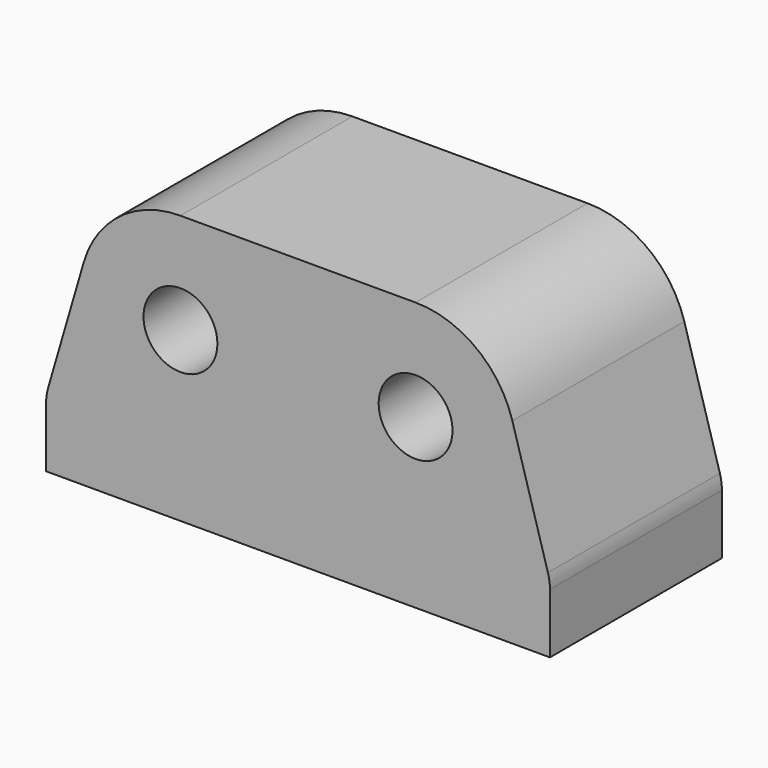
from build123d import *

# Parameters (mm, degrees)
F0_R     = 5.5
F1_DEPTH = 32
F3_DEPTH = 32


with BuildPart() as f1:
    # F0 (on Front) → F1 (new body)
    with BuildSketch(Plane.XZ):
        with BuildLine():
            ThreePointArc((16.088193, 8.229591), (13.179068, 8.816778), (10.725462, 10.486394))
            ThreePointArc((10.725462, 10.486394), (-3.640775, 14.551452), (-14.4, 4.2))
            Line((-14.4, 4.2), (-19.7, -13.971429))
            ThreePointArc((-19.7, -13.971429), (-19.924621, -15.010768), (-20, -16.071429))
            Line((-20, -16.071429), (-20, -25))
            Line((-20, -25), (0, -25))
            Line((0, -25), (20, -25))
            Line((20, -25), (50, -25))
            Line((50, -25), (55, -25))
            Line((55, -25), (55, -16.071429))
            ThreePointArc((55, -16.071429), (54.924621, -15.010768), (54.7, -13.971429))
            Line((54.7, -13.971429), (49.4, 4.2))
            ThreePointArc((49.4, 4.2), (38.640775, 14.551452), (24.274538, 10.486394))
            ThreePointArc((24.274538, 10.486394), (21.820932, 8.816778), (18.911807, 8.229591))
            Line((18.911807, 8.229591), (16.088193, 8.229591))
        make_face()
        Circle(F0_R, mode=Mode.SUBTRACT)
        with BuildLine():
            ThreePointArc((40.5, 0), (35, -5.5), (29.5, 0))
            ThreePointArc((29.5, 0), (35, 5.5), (40.5, 0))
        make_face(mode=Mode.SUBTRACT)
        with BuildLine():
            ThreePointArc((16.088193, 8.229591), (13.179068, 8.816778), (10.725462, 10.486394))
            ThreePointArc((10.725462, 10.486394), (-3.640775, 14.551452), (-14.4, 4.2))
            Line((-14.4, 4.2), (-19.7, -13.971429))
            ThreePointArc((-19.7, -13.971429), (-19.924621, -15.010768), (-20, -16.071429))
            Line((-20, -16.071429), (-20, -25))
            Line((-20, -25), (0, -25))
            Line((0, -25), (20, -25))
            Line((20, -25), (50, -25))
            Line((50, -25), (55, -25))
            Line((55, -25), (55, -16.071429))
            ThreePointArc((55, -16.071429), (54.924621, -15.010768), (54.7, -13.971429))
            Line((54.7, -13.971429), (49.4, 4.2))
            ThreePointArc((49.4, 4.2), (38.640775, 14.551452), (24.274538, 10.486394))
            ThreePointArc((24.274538, 10.486394), (21.820932, 8.816778), (18.911807, 8.229591))
            Line((18.911807, 8.229591), (16.088193, 8.229591))
        make_face()
        Circle(F0_R, mode=Mode.SUBTRACT)
        with BuildLine():
            ThreePointArc((40.5, 0), (35, -5.5), (29.5, 0))
            ThreePointArc((29.5, 0), (35, 5.5), (40.5, 0))
        make_face(mode=Mode.SUBTRACT)
        with BuildLine():
            ThreePointArc((16.088193, 8.229591), (13.179068, 8.816778), (10.725462, 10.486394))
            ThreePointArc((10.725462, 10.486394), (-3.640775, 14.551452), (-14.4, 4.2))
            Line((-14.4, 4.2), (-19.7, -13.971429))
            ThreePointArc((-19.7, -13.971429), (-19.924621, -15.010768), (-20, -16.071429))
            Line((-20, -16.071429), (-20, -25))
            Line((-20, -25), (0, -25))
            Line((0, -25), (20, -25))
            Line((20, -25), (50, -25))
            Line((50, -25), (55, -25))
            Line((55, -25), (55, -16.071429))
            ThreePointArc((55, -16.071429), (54.924621, -15.010768), (54.7, -13.971429))
            Line((54.7, -13.971429), (49.4, 4.2))
            ThreePointArc((49.4, 4.2), (38.640775, 14.551452), (24.274538, 10.486394))
            ThreePointArc((24.274538, 10.486394), (21.820932, 8.816778), (18.911807, 8.229591))
            Line((18.911807, 8.229591), (16.088193, 8.229591))
        make_face()
        Circle(F0_R, mode=Mode.SUBTRACT)
        with BuildLine():
            ThreePointArc((40.5, 0), (35, -5.5), (29.5, 0))
            ThreePointArc((29.5, 0), (35, 5.5), (40.5, 0))
        make_face(mode=Mode.SUBTRACT)
    extrude(amount=F1_DEPTH)

    # F2 (on face) → F3 (join)
    with BuildSketch(Plane(origin=(0, 0, 0), x_dir=(-1, 0, 0), z_dir=(0, 1, 0))):
        Polygon((-18.970614, 5.210728), (0, 15), (-35, 15), align=None)
    extrude(amount=-F3_DEPTH)


solid = f1.part
